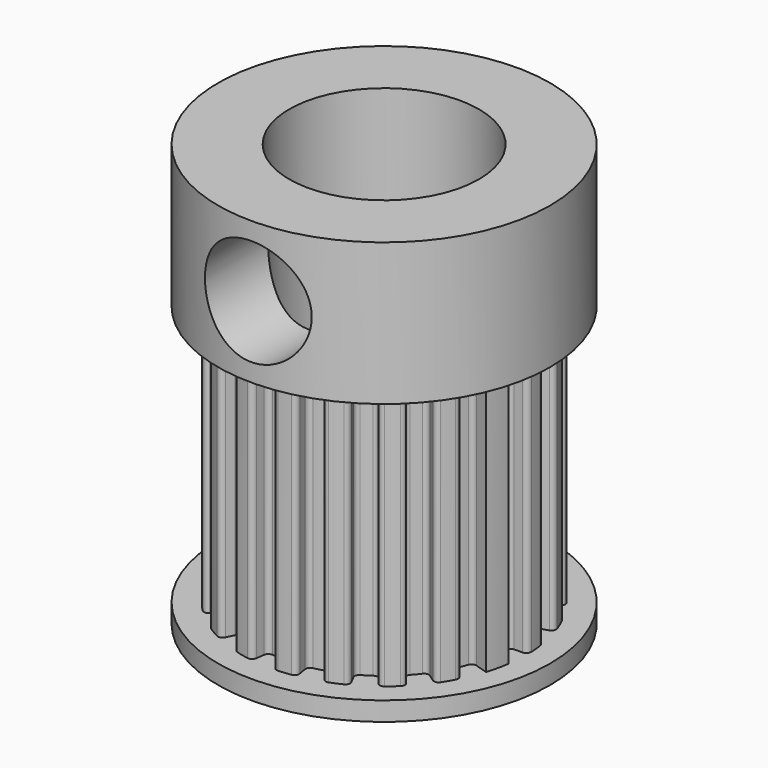
from build123d import *

# Parameters (mm, degrees)
F2_R      = 7
F3_DEPTH  = 6
F4_R      = 4
F5_DEPTH  = 11
F6_DEPTH  = 25
F7_R      = 0.2
F8_R      = 0.2
F9_R      = 7
F9_R_2    = 4
F10_DEPTH = 0.8
F12_D     = 4.5
F12_DEPTH = 4
F12_START = 0.3714633
F12_TIP   = 1.3519363928


with BuildPart() as f3:
    # F2 (on Top) → F3 (new body)
    with BuildSketch(Plane.XY):
        Circle(F2_R)
    extrude(amount=F3_DEPTH)

    # F4 (on Top) → F5 (join)
    with BuildSketch(Plane.XY):
        with BuildLine():
            Line((-0.9386067902, 5.9261300436), (-0.8212809415, 5.1853637881))
            ThreePointArc((-0.8212809415, 5.1853637881), (-1.3144950213, 5.082775112), (-1.7956057525, 4.9333862591))
            Line((-1.7956057525, 4.9333862591), (-2.05212086, 5.6381557247))
            ThreePointArc((-2.05212086, 5.6381557247), (-2.489699759, 5.4631475118), (-2.9088577215, 5.2477182428))
            Line((-2.9088577215, 5.2477182428), (-2.5452505063, 4.5917534625))
            ThreePointArc((-2.5452505063, 4.5917534625), (-2.8936464362, 4.3805605009), (-3.2246167416, 4.1429876743))
            Line((-3.2246167416, 4.1429876743), (-3.6852762761, 4.7348430564))
            ThreePointArc((-3.6852762761, 4.7348430564), (-4.0479116262, 4.4338467601), (-4.3805970504, 4.1000450585))
            Line((-4.3805970504, 4.1000450585), (-3.8330224191, 3.5875394262))
            ThreePointArc((-3.8330224191, 3.5875394262), (-4.0996707783, 3.2795120841), (-4.3416307987, 2.951735423))
            Line((-4.3416307987, 2.951735423), (-4.96186377, 3.373411912))
            ThreePointArc((-4.96186377, 3.373411912), (-5.2144688846, 2.9755503487), (-5.428492881, 2.5556731091))
            Line((-5.428492881, 2.5556731091), (-4.7499312709, 2.2362139704))
            ThreePointArc((-4.7499312709, 2.2362139704), (-4.9090325686, 1.8611553509), (-5.0385715268, 1.4748887988))
            Line((-5.0385715268, 1.4748887988), (-5.7583674593, 1.6855871986))
            ThreePointArc((-5.7583674593, 1.6855871986), (-5.8765015979, 1.2293553576), (-5.9511563321, 0.7640276902))
            Line((-5.9511563321, 0.7640276902), (-5.2072617906, 0.6685242289))
            ThreePointArc((-5.2072617906, 0.6685242289), (-5.2434222231, 0.2627230287), (-5.2480066119, -0.1446602974))
            Line((-5.2480066119, -0.1446602974), (-5.9977218421, -0.1653260542))
            ThreePointArc((-5.9977218421, -0.1653260542), (-5.9699549679, -0.6357855829), (-5.8980172408, -1.101541024))
            Line((-5.8980172408, -1.101541024), (-5.1607650857, -0.963848396))
            ThreePointArc((-5.1607650857, -0.963848396), (-5.0704859602, -1.3611289901), (-4.9496722181, -1.7502128252))
            Line((-4.9496722181, -1.7502128252), (-5.6567682492, -2.0002432288))
            ThreePointArc((-5.6567682492, -2.0002432288), (-5.4857869385, -2.4394112591), (-5.2742170658, -2.8605304304))
            Line((-5.2742170658, -2.8605304304), (-4.6149399325, -2.5029641266))
            ThreePointArc((-4.6149399325, -2.5029641266), (-4.4069561816, -2.8532853368), (-4.1724336101, -3.1864239783))
            Line((-4.1724336101, -3.1864239783), (-4.7684955544, -3.6416274038))
            ThreePointArc((-4.7684955544, -3.6416274038), (-4.4708430583, -4.0070123501), (-4.1401114265, -4.3427499786))
            Line((-4.1401114265, -4.3427499786), (-3.6225974982, -3.7999062313))
            ThreePointArc((-3.6225974982, -3.7999062313), (-3.3170325341, -4.0693728224), (-2.9914923019, -4.3143335299))
            Line((-2.9914923019, -4.3143335299), (-3.4188483451, -4.9306668914))
            ThreePointArc((-3.4188483451, -4.9306668914), (-3.0233239514, -5.1869160308), (-2.6054304112, -5.4047879119))
            Line((-2.6054304112, -5.4047879119), (-2.2797516098, -4.7291894229))
            ThreePointArc((-2.2797516098, -4.7291894229), (-1.9061702892, -4.8917292268), (-1.5211099546, -5.0248108925))
            Line((-1.5211099546, -5.0248108925), (-1.7384113767, -5.7426410201))
            ThreePointArc((-1.7384113767, -5.7426410201), (-1.2832839426, -5.8649610355), (-0.8186616721, -5.9438870335))
            Line((-0.8186616721, -5.9438870335), (-0.7163289631, -5.2009011543))
            ThreePointArc((-0.7163289631, -5.2009011543), (-0.3108770468, -5.2407876757), (0.0964469803, -5.2491140186))
            Line((0.0964469803, -5.2491140186), (0.1102251203, -5.9989874498))
            ThreePointArc((0.1102251203, -5.9989874498), (0.5809198614, -5.9755433009), (1.0473164586, -5.9078869518))
            Line((1.0473164586, -5.9078869518), (0.9164019013, -5.1694010828))
            ThreePointArc((0.9164019013, -5.1694010828), (1.3144950213, -5.082775112), (1.7046722133, -4.9655405189))
            Line((1.7046722133, -4.9655405189), (1.9481968152, -5.6749034502))
            ThreePointArc((1.9481968152, -5.6749034502), (2.3889169194, -5.5079634692), (2.811961765, -5.3002708452))
            Line((2.811961765, -5.3002708452), (2.4604665444, -4.6377369895))
            ThreePointArc((2.4604665444, -4.6377369895), (2.8126834745, -4.4329799991), (3.1479623414, -4.2015274719))
            Line((3.1479623414, -4.2015274719), (3.5976712474, -4.8017456821))
            ThreePointArc((3.5976712474, -4.8017456821), (3.9657749585, -4.5074621024), (4.3045364614, -4.1798284478))
            Line((4.3045364614, -4.1798284478), (3.7664694037, -3.6573498918))
            ThreePointArc((3.7664694037, -3.6573498918), (4.0387314889, -3.3542730897), (4.2866722135, -3.0309967558))
            Line((4.2866722135, -3.0309967558), (4.8990539583, -3.4639962924))
            ThreePointArc((4.8990539583, -3.4639962924), (5.1589255001, -3.0708424431), (5.3806268815, -2.6549678647))
            Line((5.3806268815, -2.6549678647), (4.7080485213, -2.3230968816))
            ThreePointArc((4.7080485213, -2.3230968816), (4.8740131162, -1.951024383), (5.0106262599, -1.5672027578))
            Line((5.0106262599, -1.5672027578), (5.7264300113, -1.791088866))
            ThreePointArc((5.7264300113, -1.791088866), (5.8529255821, -1.3371042429), (5.936116184, -0.8732265745))
            Line((5.936116184, -0.8732265745), (5.194101661, -0.7640732527))
            ThreePointArc((5.194101661, -0.7640732527), (5.2377109055, -0.3590048328), (5.2497785, 0.0482255248))
            Line((5.2497785, 0.0482255248), (5.9997468571, 0.0551148855))
            ThreePointArc((5.9997468571, 0.0551148855), (5.9806274118, 0.5260051214), (5.9172581497, 0.9930035197))
            Line((5.9172581497, 0.9930035197), (5.177600881, 0.8688780798))
            ThreePointArc((5.177600881, 0.8688780798), (5.0946353743, 1.2677501341), (4.9809898227, 1.6589877596))
            Line((4.9809898227, 1.6589877596), (5.6925597974, 1.8959860109))
            ThreePointArc((5.6925597974, 1.8959860109), (5.5296752326, 2.3382210005), (5.3258773826, 2.7631558235))
            Line((5.3258773826, 2.7631558235), (4.6601427098, 2.4177613456))
            ThreePointArc((4.6601427098, 2.4177613456), (4.4586297575, 2.7718442752), (4.2302668047, 3.1092350765))
            Line((4.2302668047, 3.1092350765), (4.834590634, 3.553411516))
            ThreePointArc((4.834590634, 3.553411516), (4.5437008025, 3.9242029309), (4.2191927711, 4.2659597232))
            Line((4.2191927711, 4.2659597232), (3.6917936748, 3.7327147578))
            ThreePointArc((3.6917936748, 3.7327147578), (3.3912306086, 4.0077493633), (3.0702454513, 4.2586491836))
            Line((3.0702454513, 4.2586491836), (3.5088519443, 4.8670276384))
            ThreePointArc((3.5088519443, 4.8670276384), (3.1181018141, 5.1304996543), (2.7042812893, 5.3560118286))
            Line((2.7042812893, 5.3560118286), (2.3662461282, 4.68651035))
            ThreePointArc((2.3662461282, 4.68651035), (1.9957138474, 4.8558857317), (1.6131633188, 4.9960188257))
            Line((1.6131633188, 4.9960188257), (1.8436152215, 5.7097358008))
            ThreePointArc((1.8436152215, 5.7097358008), (1.390811717, 5.8403962531), (0.9277177933, 5.9278444393))
            Line((0.9277177933, 5.9278444393), (0.8117530691, 5.1868638844))
            ThreePointArc((0.8117530691, 5.1868638844), (0.4071023257, 5.2341921723), (0, 5.25))
            Line((0, 5.25), (0, 6))
            ThreePointArc((0, 6), (-0.4710459965, 5.9852068715), (-0.9386067902, 5.9261300436))
        make_face()
        Circle(F4_R, mode=Mode.SUBTRACT)
    extrude(amount=-F5_DEPTH)

    # F6 (cut): a face of the model
    f6_faces = [f3.faces().sort_by_distance(p)[0] for p in [
        (0, 0, 0),
    ]]
    extrude(f6_faces, amount=-F6_DEPTH, mode=Mode.SUBTRACT)

    # F7
    f7_edges = [f3.edges().sort_by_distance(p)[0] for p in [
        (-4.949672, -1.750213, -5.5),
        (-5.160765, -0.963848, -5.5),
        (-4.61494, -2.502964, -5.5),
        (-5.248007, -0.14466, -5.5),
        (-5.207262, 0.668524, -5.5),
        (-4.749931, 2.236214, -5.5),
        (-3.833022, 3.587539, -5.5),
        (-5.038572, 1.474889, -5.5),
        (-4.341631, 2.951735, -5.5),
        (-3.224617, 4.142988, -5.5),
        (-2.545251, 4.591753, -5.5),
        (-0.821281, 5.185364, -5.5),
        (0.811753, 5.186864, -5.5),
        (2.366246, 4.68651, -5.5),
        (-1.795606, 4.933386, -5.5),
        (0, 5.25, -5.5),
        (1.613163, 4.996019, -5.5),
        (3.070245, 4.258649, -5.5),
        (3.691794, 3.732715, -5.5),
        (4.230267, 3.109235, -5.5),
        (5.177601, 0.868878, -5.5),
        (5.194102, -0.764073, -5.5),
        (4.660143, 2.417761, -5.5),
        (4.98099, 1.658988, -5.5),
        (5.249778, 0.048226, -5.5),
        (5.010626, -1.567203, -5.5),
        (4.708049, -2.323097, -5.5),
        (3.766469, -3.65735, -5.5),
        (2.460467, -4.637737, -5.5),
        (1.948197, -5.674903, -5.5),
        (4.286672, -3.030997, -5.5),
        (3.147962, -4.201527, -5.5),
        (1.704672, -4.965541, -5.5),
        (0.096447, -5.249114, -5.5),
        (-2.279752, -4.729189, -5.5),
        (0.916402, -5.169401, -5.5),
        (-0.716329, -5.200901, -5.5),
        (-1.52111, -5.024811, -5.5),
        (-2.991492, -4.314334, -5.5),
        (-3.622597, -3.799906, -5.5),
        (-4.172434, -3.186424, -5.5),
    ]]
    fillet(f7_edges, radius=F7_R)

    # F8
    f8_edges = [f3.edges().sort_by_distance(p)[0] for p in [
        (-4.140111, -4.34275, -5.5),
        (-4.768496, -3.641627, -5.5),
        (-5.274217, -2.86053, -5.5),
        (-5.656768, -2.000243, -5.5),
        (-5.898017, -1.101541, -5.5),
        (-5.997722, -0.165326, -5.5),
        (-5.951156, 0.764028, -5.5),
        (1.047316, -5.907887, -5.5),
        (2.811962, -5.300271, -5.5),
        (3.597671, -4.801746, -5.5),
        (4.304536, -4.179828, -5.5),
        (4.899054, -3.463996, -5.5),
        (5.380627, -2.654968, -5.5),
        (5.999747, 0.055115, -5.5),
        (5.917258, 0.993004, -5.5),
        (5.69256, 1.895986, -5.5),
        (5.325877, 2.763156, -5.5),
        (4.834591, 3.553412, -5.5),
        (2.704281, 5.356012, -5.5),
        (1.843615, 5.709736, -5.5),
        (0.927718, 5.927844, -5.5),
        (0, 6, -5.5),
        (-0.938607, 5.92613, -5.5),
        (-2.052121, 5.638156, -5.5),
        (-2.908858, 5.247718, -5.5),
        (-3.685276, 4.734843, -5.5),
        (-4.380597, 4.100045, -5.5),
        (-4.961864, 3.373412, -5.5),
        (-5.428493, 2.555673, -5.5),
        (-5.758367, 1.685587, -5.5),
        (-3.418848, -4.930667, -5.5),
        (-2.60543, -5.404788, -5.5),
        (-1.738411, -5.742641, -5.5),
        (-0.818662, -5.943887, -5.5),
        (0.110225, -5.998987, -5.5),
    ]]
    fillet(f8_edges, radius=F8_R)

    # F9 (on offset) → F10 (join)
    with BuildSketch(Plane.XY.offset(-11)):
        Circle(F9_R)
        Circle(F9_R_2, mode=Mode.SUBTRACT)
    extrude(amount=-F10_DEPTH)

    # F12
    # its depths count from where the whole tool has entered the part; down to there all is cleared
    with Locations(Plane.XZ.offset(7).offset(-F12_START)):
        with Locations((0, 3.0072899535)):
            Hole(F12_D / 2, depth=F12_DEPTH)
            with Locations((0, 0, -(F12_DEPTH + F12_TIP / 2))):  # 118° drill point
                Cone(0, F12_D / 2, F12_TIP, mode=Mode.SUBTRACT)


solid = f3.part
